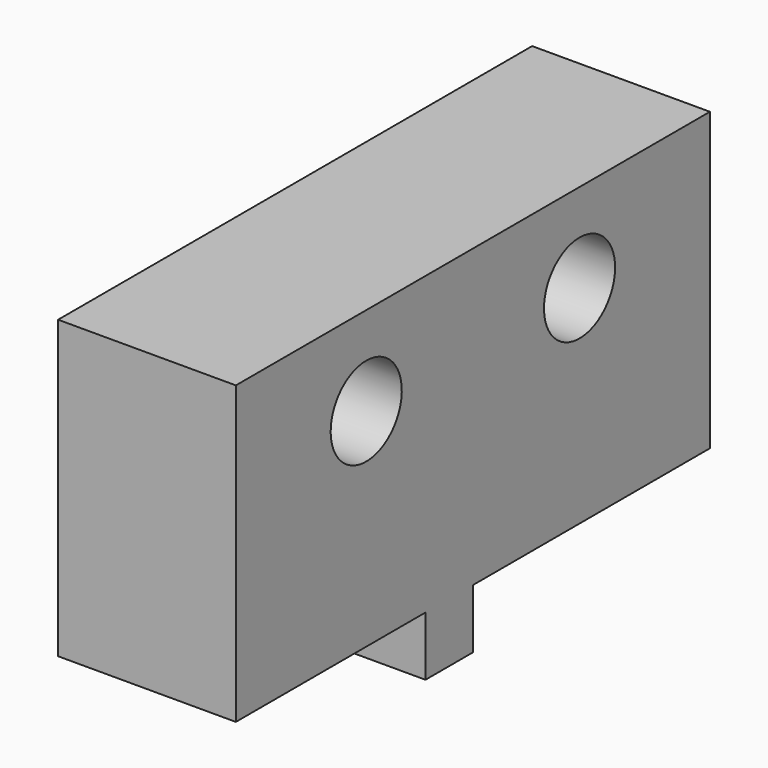
from build123d import *

# Parameters (mm, degrees)
CYLINDER033_R           = 1.5
CYLINDER033_DEPTH       = 10
ARRAY001016_Y_COUNT     = 2
ARRAY001016_Y_PITCH     = 9
BOX016_W                = 6
BOX016_H                = 20
BOX016_DEPTH            = 10
BOX017_W                = 6
BOX017_H                = 2
BOX017_DEPTH            = 2
BODY006_PLACEMENT_ANGLE = 180


with BuildPart() as end_stop_hole_array:
    # Cylinder033 → Cylinder033 (new body)
    with BuildSketch(Plane(origin=(-2, 5.5, 3), x_dir=(0, 0, -1), z_dir=(1, 0, 0))):
        Circle(CYLINDER033_R)
    extrude(amount=CYLINDER033_DEPTH)

    # Array001016 Y: end stop hole array ×2


with BuildPart() as end_stop_hole_array_1:
    add(end_stop_hole_array.part)
    with Locations(*[(0, i * ARRAY001016_Y_PITCH, 0) for i in range(1, ARRAY001016_Y_COUNT)]):
        add(end_stop_hole_array.part)


with BuildPart() as end_stop_body_cube:
    # Box016 → Box016 (new body)
    with BuildSketch(Plane.XY):
        with Locations((3, 10)):
            Rectangle(BOX016_W, BOX016_H)
    extrude(amount=BOX016_DEPTH)


with BuildPart() as end_stop_clone001:
    # Box017 → Box017 (new body)
    with BuildSketch(Plane(origin=(0, 8, 10), x_dir=(1, 0, 0), z_dir=(0, 0, 1))):
        with Locations((3, 1)):
            Rectangle(BOX017_W, BOX017_H)
    extrude(amount=BOX017_DEPTH)

    # Fusion011: union end stop body cube
    add(end_stop_body_cube.part)

    # Cut013: cut end stop hole array
    add(end_stop_hole_array_1.part, mode=Mode.SUBTRACT)


with BuildPart() as end_stop_clone001_1:
    # Body006 placement: moved
    add(end_stop_clone001.part.moved(Location((60, -17, -19))).rotate(Axis((60, -17, -19), (0, 1, 0)), BODY006_PLACEMENT_ANGLE))


solid = end_stop_clone001_1.part
